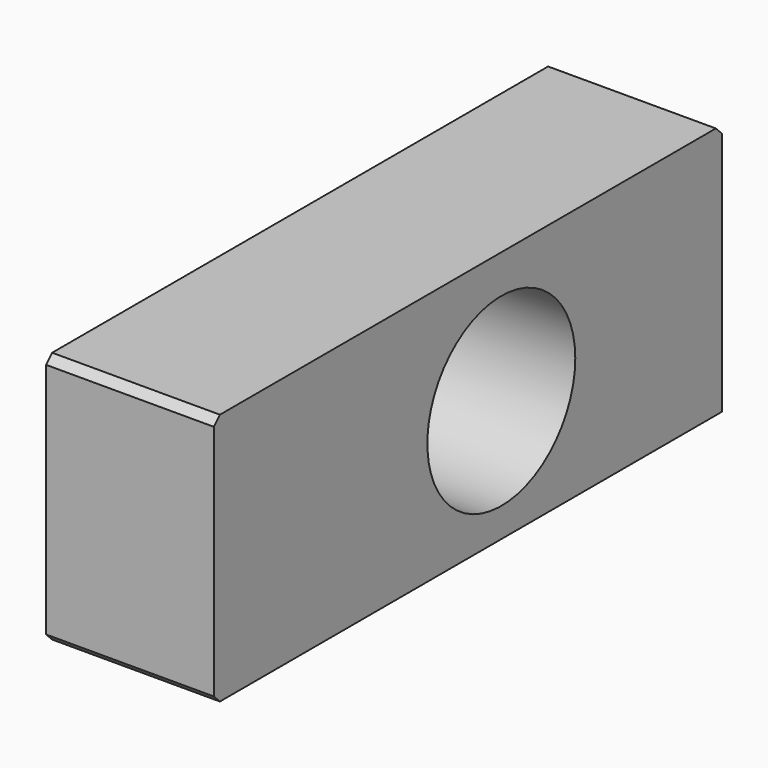
from build123d import *

# Parameters (mm, degrees)
F0_W     = 112.340003252
F0_H     = 169.1052764654
F2_DEPTH = 425.2858813852
F3_R     = 61.9097520686
F4_DEPTH = 148.8002743572
F5_SIZE  = 5.08


with BuildPart() as f2:
    # F0 (on Front) → F2 (new body)
    with BuildSketch(Plane.XZ):
        with Locations((-56.170001626, 84.5526382327)):
            Rectangle(F0_W, F0_H)
    extrude(amount=-F2_DEPTH)

    # F3 (on face) → F4 (cut)
    with BuildSketch(Plane.YZ):
        with Locations((240.6340688467, 81.4660638571)):
            Circle(F3_R)
    extrude(amount=-F4_DEPTH, mode=Mode.SUBTRACT)

    # F5
    f5_edges = [f2.edges().sort_by_distance(p)[0] for p in [
        (-56.170002, 425.285881, 169.105276),
        (-56.170002, 0, 169.105276),
        (-56.170002, 0, 0),
    ]]
    chamfer(f5_edges, length=F5_SIZE)


solid = f2.part
